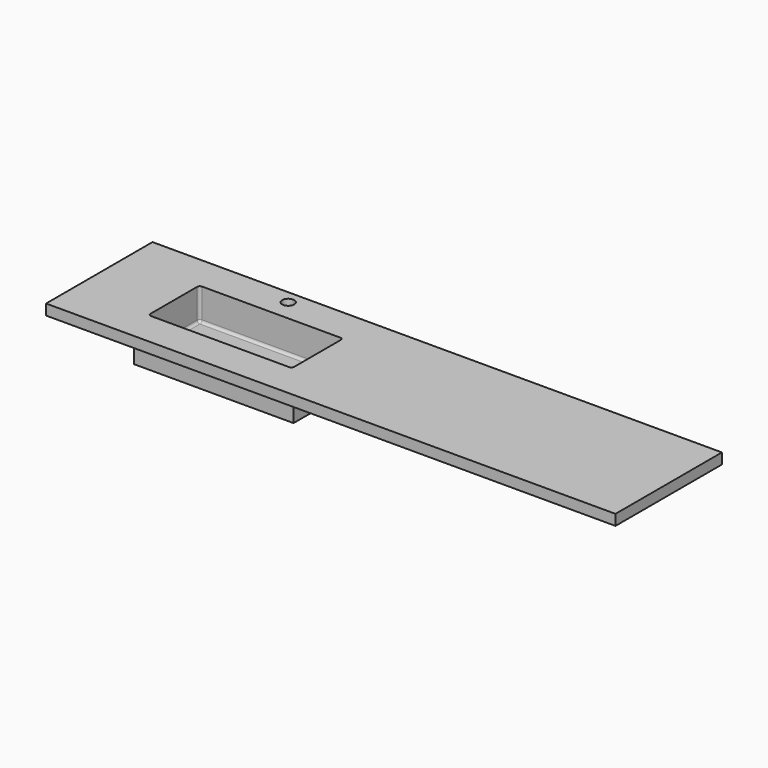
from build123d import *

# Parameters (mm, degrees)
F0_W     = 2140
F0_H     = 500
F1_DEPTH = 40
F2_W     = 600
F2_H     = 300
F3_DEPTH = 120
F5_D     = 45
F6_W     = 540
F6_H     = 240
F7_DEPTH = 120
F8_R     = 10
F10_D    = 45


with BuildPart() as f1:
    # F0 (on Top) → F1 (new body)
    with BuildSketch(Plane.XY):
        Rectangle(F0_W, F0_H)
    extrude(amount=F1_DEPTH)

    # F2 (on face) → F3 (join)
    with BuildSketch(Plane(origin=(0, 0, 0), x_dir=(1, 0, 0), z_dir=(0, 0, -1))):
        with Locations((-520, 0)):
            Rectangle(F2_W, F2_H)
    extrude(amount=F3_DEPTH)

    # F5 (through all)
    with Locations(Plane(origin=(0, 0, 0), x_dir=(1, 0, 0), z_dir=(0, 0, -1))):
        with Locations((-520, -200)):
            Hole(F5_D / 2)

    # F6 (on face) → F7 (cut)
    with BuildSketch(Plane.XY.offset(40)):
        with Locations((-520, 0)):
            Rectangle(F6_W, F6_H)
    extrude(amount=-F7_DEPTH, mode=Mode.SUBTRACT)

    # F8
    f8_edges = [f1.edges().sort_by_distance(p)[0] for p in [
        (-250, -120, -20),
        (-250, 0, -80),
        (-520, -120, -80),
        (-790, -120, -20),
        (-790, 0, -80),
        (-520, 120, -80),
        (-250, 120, -20),
        (-790, 120, -20),
    ]]
    fillet(f8_edges, radius=F8_R)

    # F10 (through all)
    with Locations(Plane.XY.offset(-80)):
        with Locations((-520, 0)):
            Hole(F10_D / 2)


solid = f1.part
